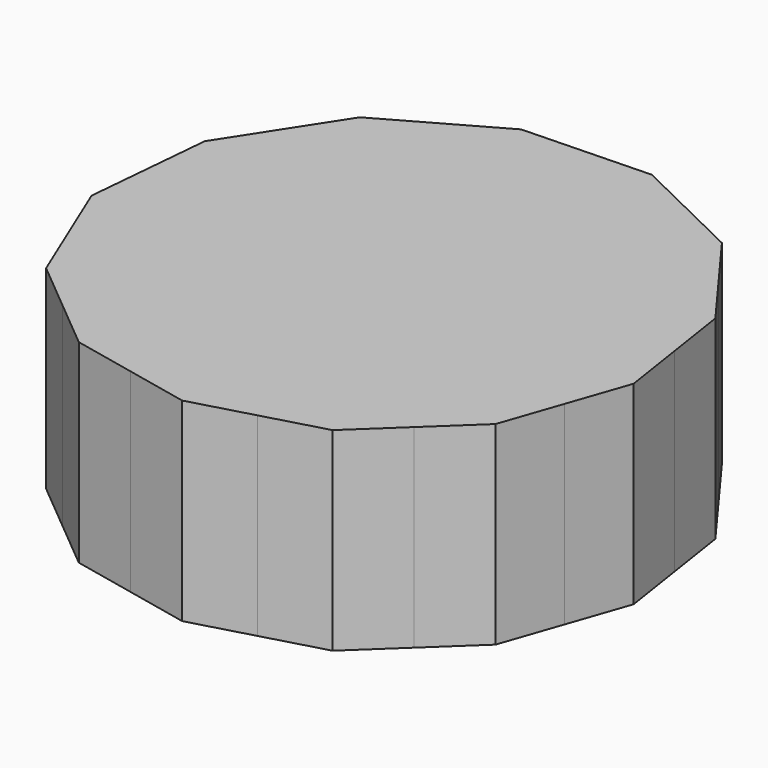
from build123d import *

# Parameters (mm, degrees)
F1_DEPTH = 15
F2_R     = 10
F3_DEPTH = 12


with BuildPart() as f1:
    # F0 (on Top) → F1 (new body)
    with BuildSketch(Plane.XY):
        with BuildLine():
            ThreePointArc((19.7717431053, 3.0130009255), (19.9428541351, 1.5108173108), (20, 0))
            ThreePointArc((20, 0), (19.7249131634, -3.3057224165), (18.9072199305, -6.5205087607))
            Line((18.9072199305, -6.5205087607), (20.5143810336, -1.8602971795))
            Line((20.5143810336, -1.8602971795), (19.7717431053, 3.0130009255))
        make_face()
        with BuildLine():
            Line((17.3000590925, -11.1807195735), (18.9072199305, -6.5205087607))
            ThreePointArc((18.9072199305, -6.5205087607), (16.7973506343, -10.8558284654), (13.7112804032, -14.5602468971))
            Line((13.7112804032, -14.5602468971), (17.3000590925, -11.1807195735))
        make_face()
        with BuildLine():
            Line((10.1225021017, -17.9397738555), (13.7112804032, -14.5602468971))
            ThreePointArc((13.7112804032, -14.5602468971), (9.8283603604, -17.4184767596), (5.3742517394, -19.2644080688))
            Line((5.3742517394, -19.2644080688), (10.1225021017, -17.9397738555))
        make_face()
        with BuildLine():
            Line((0.6260018687, -20.5890421449), (5.3742517394, -19.2644080688))
            ThreePointArc((5.3742517394, -19.2644080688), (0.6078111932, -19.9907620053), (-4.1939531295, -19.5553255444))
            Line((-4.1939531295, -19.5553255444), (0.6260018687, -20.5890421449))
        make_face()
        with BuildLine():
            Line((-9.0139078482, -18.5216090038), (-4.1939531295, -19.5553255444))
            ThreePointArc((-4.1939531295, -19.5553255444), (-8.7519798816, -17.9834047987), (-12.8013734485, -15.3663540839))
            Line((-12.8013734485, -15.3663540839), (-9.0139078482, -18.5216090038))
        make_face()
        with BuildLine():
            Line((-16.5888399065, -12.2110984495), (-12.8013734485, -15.3663540839))
            ThreePointArc((-12.8013734485, -15.3663540839), (-16.1067981351, -11.8562664374), (-18.476154196, -7.6571356344))
            Line((-18.476154196, -7.6571356344), (-16.5888399065, -12.2110984495))
        make_face()
        with BuildLine():
            Line((-20.3634686594, -3.1031724001), (-18.476154196, -7.6571356344))
            ThreePointArc((-18.476154196, -7.6571356344), (-19.771743259, -3.0129999172), (-19.9182703959, 1.8062404148))
            Line((-19.9182703959, 1.8062404148), (-20.3634686594, -3.1031724001))
        make_face()
        with BuildLine():
            ThreePointArc((-19.9182703959, 1.8062404148), (-18.9072199911, 6.520508585), (-16.7973506267, 10.8558284771))
            Line((-16.7973506267, 10.8558284771), (-19.4730721488, 6.7156530489))
            Line((-19.4730721488, 6.7156530489), (-19.9182703959, 1.8062404148))
        make_face()
        with BuildLine():
            ThreePointArc((-16.7973506267, 10.8558284771), (-13.7112803263, 14.5602469695), (-9.8283602447, 17.4184768249))
            Line((-9.8283602447, 17.4184768249), (-14.1216294849, 14.9960033168))
            Line((-14.1216294849, 14.9960033168), (-16.7973506267, 10.8558284771))
        make_face()
        with BuildLine():
            ThreePointArc((-9.8283602447, 17.4184768249), (-5.3742520398, 19.264407985), (-0.6078118988, 19.9907619839))
            Line((-0.6078118988, 19.9907619839), (-5.5350916901, 19.8409499462))
            Line((-5.5350916901, 19.8409499462), (-9.8283602447, 17.4184768249))
        make_face()
        with BuildLine():
            ThreePointArc((-0.6078118988, 19.9907619839), (4.1939525466, 19.5553256694), (8.751979709, 17.9834048826))
            Line((8.751979709, 17.9834048826), (4.3194689059, 20.1405740523))
            Line((4.3194689059, 20.1405740523), (-0.6078118988, 19.9907619839))
        make_face()
        with BuildLine():
            ThreePointArc((8.751979709, 17.9834048826), (12.8013739031, 15.3663537052), (16.1067986444, 11.8562657455))
            Line((16.1067986444, 11.8562657455), (13.1844912307, 15.8262353633))
            Line((13.1844912307, 15.8262353633), (8.751979709, 17.9834048826))
        make_face()
        with BuildLine():
            ThreePointArc((16.1067986444, 11.8562657455), (18.476154164, 7.6571357118), (19.7717431053, 3.0130009255))
            Line((19.7717431053, 3.0130009255), (19.0291055049, 7.8862968793))
            Line((19.0291055049, 7.8862968793), (16.1067986444, 11.8562657455))
        make_face()
        with BuildLine():
            ThreePointArc((18.9072199305, -6.5205087607), (19.7249131634, -3.3057224165), (20, 0))
            ThreePointArc((20, 0), (19.9428541351, 1.5108173108), (19.7717431053, 3.0130009255))
            ThreePointArc((19.7717431053, 3.0130009255), (18.476154164, 7.6571357118), (16.1067986444, 11.8562657455))
            ThreePointArc((16.1067986444, 11.8562657455), (12.8013739031, 15.3663537052), (8.751979709, 17.9834048826))
            ThreePointArc((8.751979709, 17.9834048826), (4.1939525466, 19.5553256694), (-0.6078118988, 19.9907619839))
            ThreePointArc((-0.6078118988, 19.9907619839), (-5.3742520398, 19.264407985), (-9.8283602447, 17.4184768249))
            ThreePointArc((-9.8283602447, 17.4184768249), (-13.7112803263, 14.5602469695), (-16.7973506267, 10.8558284771))
            ThreePointArc((-16.7973506267, 10.8558284771), (-18.9072199911, 6.520508585), (-19.9182703959, 1.8062404148))
            ThreePointArc((-19.9182703959, 1.8062404148), (-19.771743259, -3.0129999172), (-18.476154196, -7.6571356344))
            ThreePointArc((-18.476154196, -7.6571356344), (-16.1067981351, -11.8562664374), (-12.8013734485, -15.3663540839))
            ThreePointArc((-12.8013734485, -15.3663540839), (-8.7519798816, -17.9834047987), (-4.1939531295, -19.5553255444))
            ThreePointArc((-4.1939531295, -19.5553255444), (0.6078111932, -19.9907620053), (5.3742517394, -19.2644080688))
            ThreePointArc((5.3742517394, -19.2644080688), (9.8283603604, -17.4184767596), (13.7112804032, -14.5602468971))
            ThreePointArc((13.7112804032, -14.5602468971), (16.7973506343, -10.8558284654), (18.9072199305, -6.5205087607))
        make_face()
    extrude(amount=F1_DEPTH)

    # F2 (on face) → F3 (cut)
    with BuildSketch(Plane(origin=(0, 0, 0), x_dir=(1, 0, 0), z_dir=(0, 0, -1))):
        Circle(F2_R)
    extrude(amount=-F3_DEPTH, mode=Mode.SUBTRACT)


solid = f1.part
